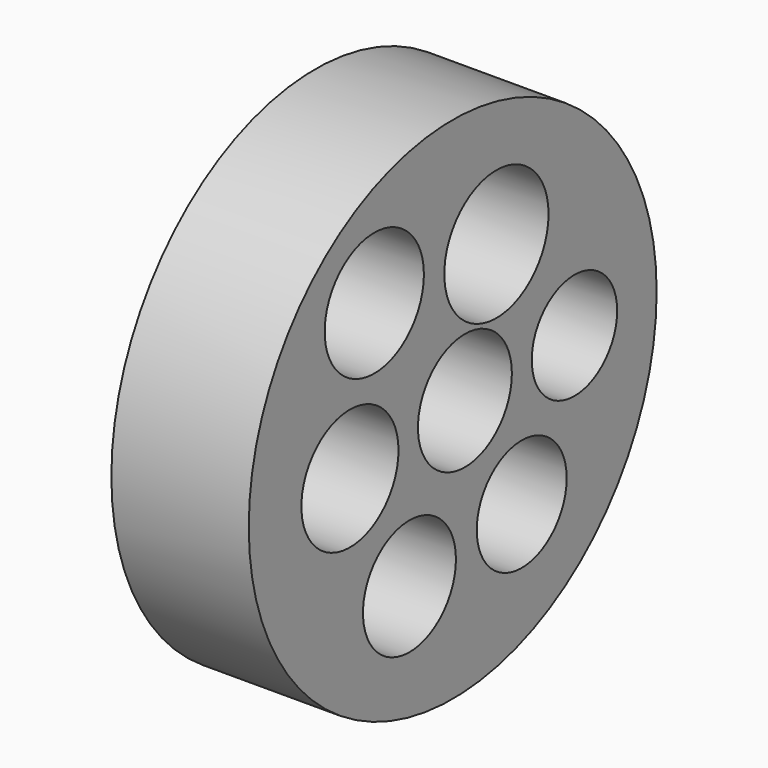
from build123d import *

# Parameters (mm, degrees)
F0_R     = 23.564799
F1_DEPTH = 12.7
F2_R     = 5.731585
F2_R_2   = 6.023249
F2_R_3   = 5.610998
F2_R_4   = 5.425092
F2_R_5   = 4.934707
F2_R_6   = 5.195112
F2_R_7   = 5.370794
F3_DEPTH = 25.4


with BuildPart() as f1:
    # F0 (on Right) → F1 (new body)
    with BuildSketch(Plane.YZ):
        with Locations((-5.052262, 21.17021)):
            Circle(F0_R)
    extrude(amount=F1_DEPTH)

    # F2 (on face) → F3 (cut)
    with BuildSketch(Plane.YZ.offset(12.7)):
        with Locations((-14.112254, 33.503115)):
            Circle(F2_R)
        with Locations((0, 32.565415)):
            Circle(F2_R_2)
        with Locations((-16.925359, 20.375287)):
            Circle(F2_R_3)
        with Locations((-3.641246, 21.312989)):
            Circle(F2_R_4)
        with Locations((9.017731, 21.469273)):
            Circle(F2_R_5)
        with Locations((2.922666, 10.216848)):
            Circle(F2_R_6)
        with Locations((-10.048877, 8.810295)):
            Circle(F2_R_7)
    extrude(amount=-F3_DEPTH, mode=Mode.SUBTRACT)


solid = f1.part
